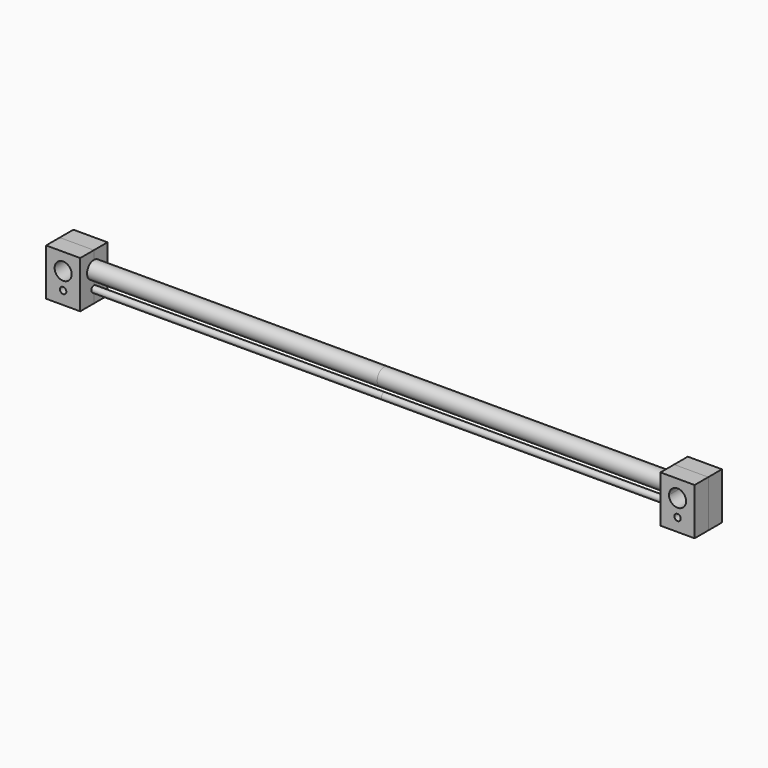
from build123d import *

# Parameters (mm, degrees)
F0_W     = 431.8
F0_H     = 12.7
F0_H_2   = 4.7625
F3_DEPTH = 25.4


with BuildPart() as f1:
    # F0 (on Front) → F1 (revolve)
    with BuildSketch(Plane.XZ):
        with Locations((-215.9, 6.35)):
            Rectangle(F0_W, F0_H)
    revolve(axis=Axis((-228.6, 0, 0), (1, 0, 0)))



with BuildPart() as f2:
    # F0 (on Front) → F2 (revolve)
    with BuildSketch(Plane.XZ):
        with Locations((-215.9, -23.01875)):
            Rectangle(F0_W, F0_H_2)
    revolve(axis=Axis((-228.6, 0, -25.4), (-1, 0, 0)))


with BuildPart() as f1_1:
    add(f1.part)

    add(f2.part)  # F3 merges F2
    # F0 (on Front) → F3 (join, symmetric)
    with BuildSketch(Plane.XZ):
        with BuildLine():
            Line((-431.8, 0), (-444.5, 0))
            ThreePointArc((-444.5, 0), (-466.1802561211, -8.9802561211), (-457.2, 12.7))
            Line((-457.2, 12.7), (-431.8, 12.7))
            Line((-431.8, 12.7), (-431.8, 25.4))
            Line((-431.8, 25.4), (-482.6, 25.4))
            Line((-482.6, 25.4), (-482.6, -44.45))
            Line((-482.6, -44.45), (-431.8, -44.45))
            Line((-431.8, -44.45), (-431.8, -25.4))
            Line((-431.8, -25.4), (-452.4375, -25.4))
            ThreePointArc((-452.4375, -25.4), (-460.5675960454, -28.7675960454), (-457.2, -20.6375))
            Line((-457.2, -20.6375), (-431.8, -20.6375))
            Line((-431.8, -20.6375), (-431.8, 0))
        make_face()
        with BuildLine():
            ThreePointArc((-457.2, 12.7), (-448.2197438789, 8.9802561211), (-444.5, 0))
            Line((-444.5, 0), (-431.8, 0))
            Line((-431.8, 0), (-431.8, 12.7))
            Line((-431.8, 12.7), (-457.2, 12.7))
        make_face()
        with BuildLine():
            Line((-431.8, -25.4), (-431.8, -20.6375))
            Line((-431.8, -20.6375), (-457.2, -20.6375))
            ThreePointArc((-457.2, -20.6375), (-453.8324039546, -22.0324039546), (-452.4375, -25.4))
            Line((-452.4375, -25.4), (-431.8, -25.4))
        make_face()
    extrude(amount=F3_DEPTH, both=True)

    # F4: F1 across plane


with BuildPart() as f1_2:
    add(f1_1.part)
    add(f1_1.part.mirror(Plane.YZ))


solid = f1_2.part
